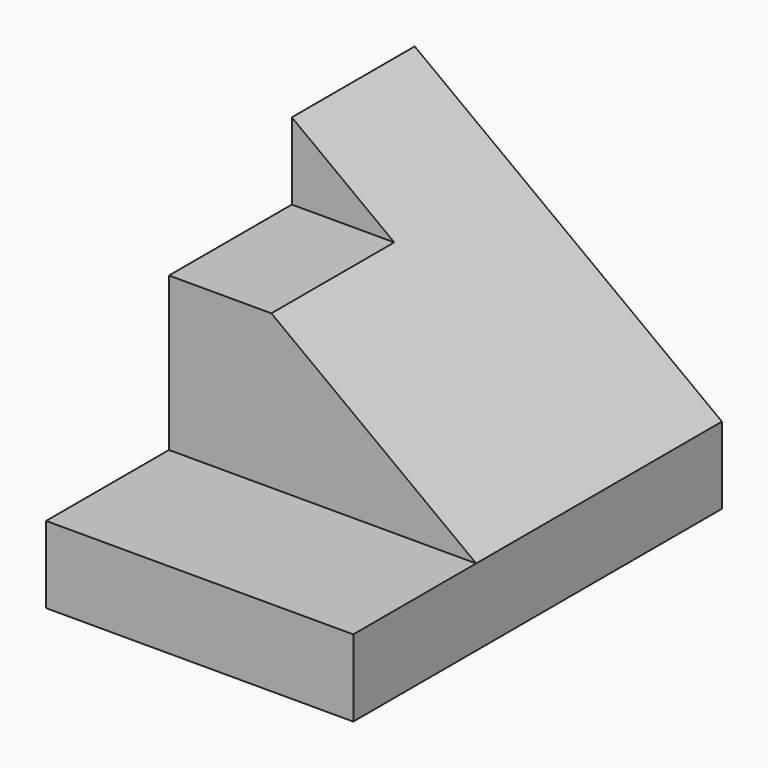
from build123d import *

# Parameters (mm, degrees)
F0_W     = 25.4
F0_H     = 6.35
F1_DEPTH = 38.1
F2_W     = 12.7
F2_H     = 19.05
F3_DEPTH = 25.4
F5_DEPTH = 12.7


with BuildPart() as f1:
    # F0 (on Front) → F1 (new body)
    with BuildSketch(Plane.XZ):
        with Locations((12.7, 3.175)):
            Rectangle(F0_W, F0_H)
        Polygon((0, 25.4), (0, 6.35), (25.4, 6.35), align=None)
    extrude(amount=-F1_DEPTH)

    # F2 (on face) → F3 (cut)
    with BuildSketch(Plane(origin=(0, 0, 0), x_dir=(0, -1, 0), z_dir=(-1, 0, 0))):
        with Locations((-6.35, 15.875)):
            Rectangle(F2_W, F2_H)
    extrude(amount=-F3_DEPTH, mode=Mode.SUBTRACT)

    # F4 (on face) → F5 (cut)
    with BuildSketch(Plane.XZ.offset(-12.7)):
        Polygon((0, 25.4), (0, 19.05), (8.466667, 19.05), align=None)
    extrude(amount=-F5_DEPTH, mode=Mode.SUBTRACT)


solid = f1.part
